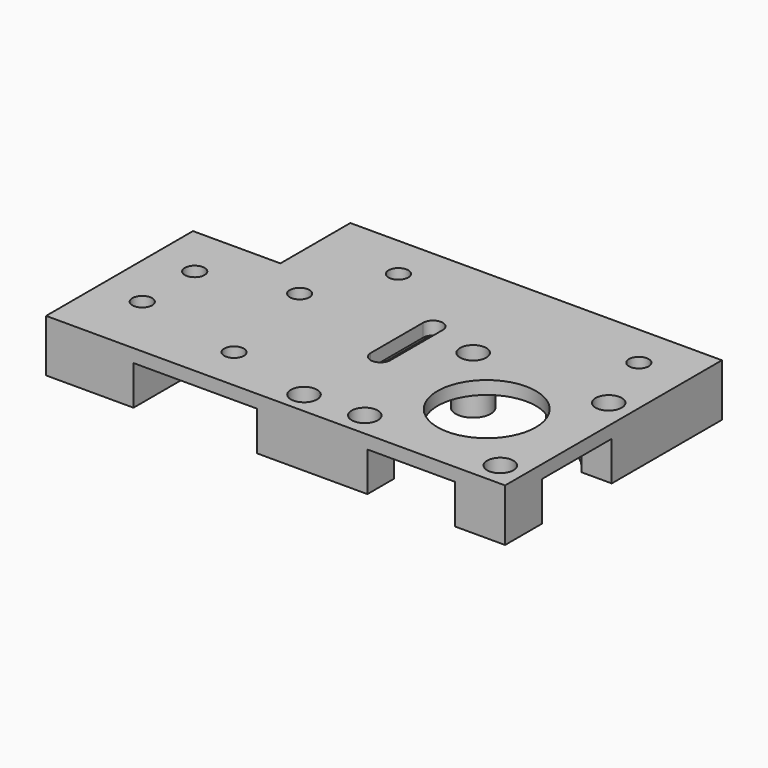
from build123d import *

# Parameters (mm, degrees)
SKETCH_R        = 2.25
SKETCH_R_2      = 11.25
SKETCH_R_3      = 1.75
PAD_DEPTH       = 12
POCKET_DEPTH    = 9
SKETCH002_R     = 4
PAD001_DEPTH    = 8
SKETCH003_R     = 3
POCKET001_DEPTH = 8
SKETCH004_R     = 1.75
POCKET002_DEPTH = 5


with BuildPart() as pocket_belt_path:
    # Sketch → Pad (new body)
    with BuildSketch(Plane.XY):
        Polygon((0, 0), (105, 0), (105, 62), (20, 62), (20, 42), (0, 42), align=None)
        with Locations((35, 10)):
            Circle(SKETCH_R, mode=Mode.SUBTRACT)
        with Locations((30, 35)):
            Circle(SKETCH_R, mode=Mode.SUBTRACT)
        with Locations((84, 21)):
            Circle(SKETCH_R_2, mode=Mode.SUBTRACT)
        with Locations((68.5, 36.5)):
            Circle(SKETCH_R_3, mode=Mode.SUBTRACT)
        with Locations((99.5, 36.5)):
            Circle(SKETCH_R_3, mode=Mode.SUBTRACT)
        with Locations((68.5, 5.5)):
            Circle(SKETCH_R_3, mode=Mode.SUBTRACT)
        with Locations((99.5, 5.5)):
            Circle(SKETCH_R_3, mode=Mode.SUBTRACT)
        with Locations((10, 30)):
            Circle(SKETCH_R, mode=Mode.SUBTRACT)
        with Locations((10, 15)):
            Circle(SKETCH_R, mode=Mode.SUBTRACT)
        with Locations((39, 52)):
            Circle(SKETCH_R, mode=Mode.SUBTRACT)
        with Locations((94, 52)):
            Circle(SKETCH_R, mode=Mode.SUBTRACT)
        with Locations((55, 5)):
            Circle(SKETCH_R_3, mode=Mode.SUBTRACT)
        with BuildLine():
            Line((58.75, 25), (58.75, 40))
            ThreePointArc((58.75, 40), (56.5, 42.25), (54.25, 40))
            Line((54.25, 25), (54.25, 40))
            ThreePointArc((54.25, 25), (56.5, 22.75), (58.75, 25))
        make_face(mode=Mode.SUBTRACT)
    extrude(amount=PAD_DEPTH)

    # Sketch001 → Pocket (cut)
    with BuildSketch(Plane.XY.offset(12)):
        with BuildLine():
            ThreePointArc((38.485281, 42), (36.015595, 44.209377), (32.999996, 45.583006))
            Line((32.999996, 67), (32.999996, 45.583006))
            Line((20, 67), (32.999996, 67))
            Line((20, -1), (20, 67))
            Line((20, -1), (48.252269, -1))
            Line((48.252269, 11), (48.252269, -1))
            Line((48.252269, 11), (70.252269, 11))
            ThreePointArc((70.252269, 11), (71.759618, 9.202833), (73.499996, 7.630258))
            Line((73.499996, 7.630258), (73.499996, -1))
            Line((73.499996, -1), (93.499996, -1))
            Line((93.499996, -1), (93.499996, 6.902128))
            ThreePointArc((93.499996, 6.902128), (95.574295, 8.548671), (97.367695, 10.497399))
            Line((105.499996, 10.497399), (97.367695, 10.497399))
            Line((105.499996, 30.497399), (105.499996, 10.497399))
            Line((98.099621, 30.497399), (105.499996, 30.497399))
            ThreePointArc((98.099621, 30.497399), (91.98574, 36.007594), (83.999996, 38))
            Line((83.999996, 38), (83.999996, 67))
            Line((83.999996, 67), (43.999996, 67))
            Line((43.999996, 67), (43.999996, 42))
            Line((38.485281, 42), (43.999996, 42))
        make_face()
    extrude(amount=-POCKET_DEPTH, mode=Mode.SUBTRACT)


with BuildPart() as pocket002:
    # Part__Mirroring: instance of Pocket belt path
    add(pocket_belt_path.part.mirror(Plane(origin=(0, 0, 0), x_dir=(0, 1, 0), z_dir=(0, 0, 1))))

    # Sketch002 → Pad001 (new body)
    with BuildSketch(Plane(origin=(0, 0, -3), x_dir=(1, 0, 0), z_dir=(0, 0, -1))):
        with Locations((68.5, -36.5)):
            Circle(SKETCH002_R)
    extrude(amount=PAD001_DEPTH)

    # Sketch003 → Pocket001 (cut)
    with BuildSketch(Plane.XY):
        with Locations((55, 5)):
            Circle(SKETCH003_R)
        with Locations((68.5, 36.5)):
            Circle(SKETCH003_R)
        with Locations((68.5, 5.5)):
            Circle(SKETCH003_R)
        with Locations((99.5, 36.5)):
            Circle(SKETCH003_R)
        with Locations((99.5, 5.5)):
            Circle(SKETCH003_R)
    extrude(amount=-POCKET001_DEPTH, mode=Mode.SUBTRACT)

    # Sketch004 → Pocket002 (cut)
    with BuildSketch(Plane.XY.offset(-8)):
        with Locations((68.5, 36.5)):
            Circle(SKETCH004_R)
    extrude(amount=-POCKET002_DEPTH, mode=Mode.SUBTRACT)


solid = pocket002.part
